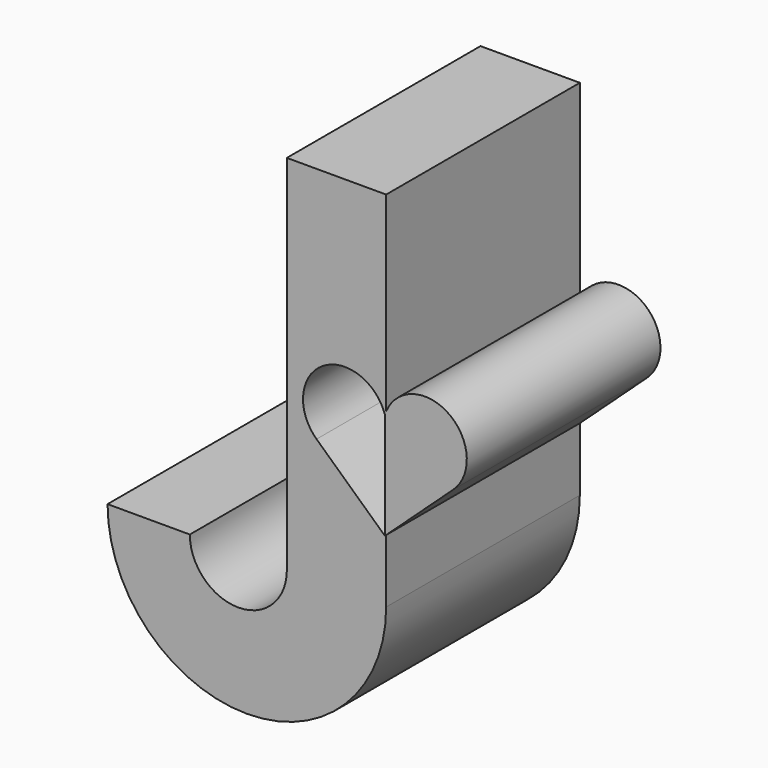
from build123d import *

# Parameters (mm, degrees)
F1_DEPTH = 25.4


with BuildPart() as f1:
    # F0 (on Front) → F1 (new body)
    with BuildSketch(Plane.XZ):
        with BuildLine():
            ThreePointArc((-29.2317408129, 0), (-14.6158704065, -14.6158704065), (0, 0))
            Line((0, 0), (0, 6.6529495651))
            Line((0, 6.6529495651), (-0.1310613629, 6.5323147738))
            Line((-0.1310613629, 6.5323147738), (-7.3034405077, 13.1340961215))
            ThreePointArc((-7.3034405077, 13.1340961215), (-6.6924329737, 20.0818821116), (-0.1310613629, 17.7168318043))
            ThreePointArc((-0.1310613629, 17.7168318043), (-0.0693541961, 17.8959086591), (0, 18.0721649776))
            Line((0, 18.0721649776), (0, 38.1))
            Line((0, 38.1), (-10.4210021347, 38.1))
            Line((-10.4210021347, 38.1), (-10.4210021347, 0))
            ThreePointArc((-10.4210021347, 0), (-15.5103308463, -5.0893287117), (-20.599659558, 0))
            Line((-20.599659558, 0), (-29.2317408129, 0))
        make_face()
        with BuildLine():
            Line((-0.1310613629, 6.5323147738), (0, 6.6529495651))
            Line((0, 6.6529495651), (0, 18.0721649776))
            ThreePointArc((0, 18.0721649776), (-0.0693541961, 17.8959086591), (-0.1310613629, 17.7168318043))
            Line((-0.1310613629, 17.7168318043), (-0.1310613629, 6.5323147738))
        make_face()
        with BuildLine():
            Line((0, 18.0721649776), (0, 6.6529495651))
            Line((0, 6.6529495651), (7.0413177818, 13.1340961215))
            ThreePointArc((7.0413177818, 13.1340961215), (6.5876906316, 19.9764889944), (0, 18.0721649776))
        make_face()
    extrude(amount=F1_DEPTH)


solid = f1.part
